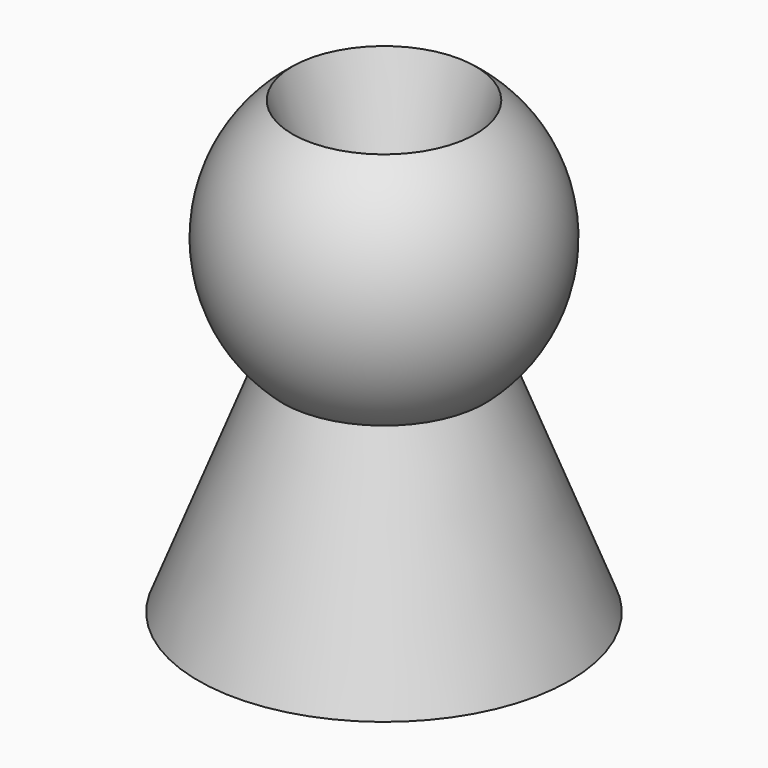
from build123d import *


with BuildPart() as f1:
    # F0 (on Front) → F1 (revolve)
    with BuildSketch(Plane.XZ):
        with BuildLine():
            Line((-0.811438, 6.137778), (-3.027734, 12.491356))
            ThreePointArc((-3.027734, 12.491356), (-5.014969, 8.704305), (-3.347156, 4.766126))
            Line((-3.347156, 4.766126), (-6.137301, -2.39948))
            Line((-6.137301, -2.39948), (-5.197422, -2.39948))
            ThreePointArc((-5.197422, -2.39948), (-3.947176, 0.822017), (-0.953815, 2.548559))
            Line((-0.953815, 2.548559), (-0.811438, 2.733914))
            Line((-0.811438, 2.733914), (-0.811438, 6.137778))
        make_face()
    revolve(axis=Axis((0, 0, 4.58246), (0, 0, -1)))


solid = f1.part
